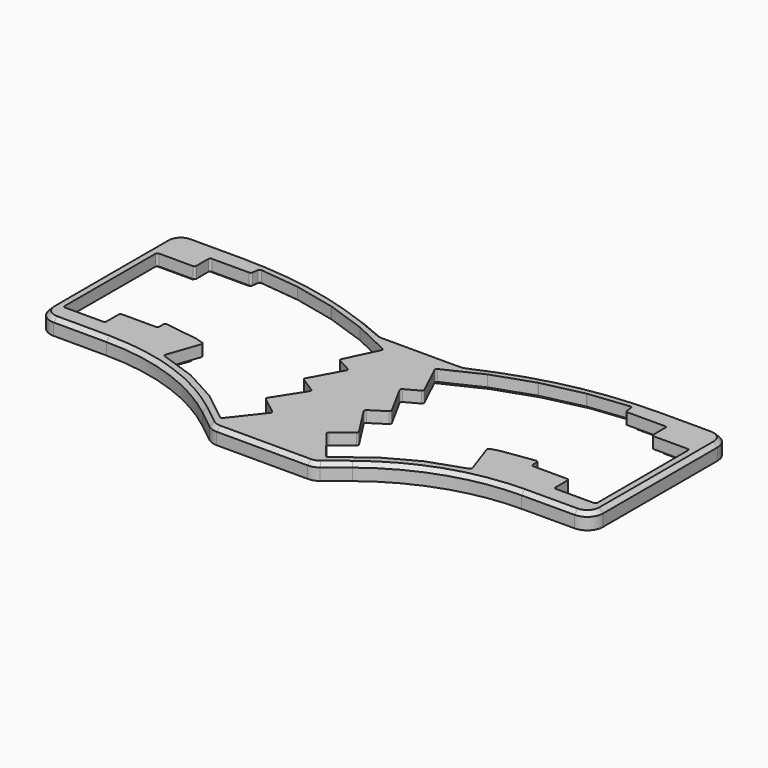
from build123d import *

# Parameters (mm, degrees)
PAD001_DEPTH    = 8
POCKET002_DEPTH = 8.001
POCKET003_DEPTH = 2.25
FILLET003_R     = 8
CHAMFER001_SIZE = 2
FILLET004_R     = 1
FILLET005_R     = 1
SKETCH014_R     = 1.5
POCKET009_DEPTH = 1.6


with BuildPart() as part:
    # Sketch003 → Pad001 (new body)
    with BuildSketch(Plane.XY):
        with BuildLine():
            add(Edge.make_bspline(
                [(141.07446, -41.399095), (114.89347, -29.032559), (86.237735, -22.575652), (57.149929, -22.575811)],
                knots=[0, 0, 0, 0, 1, 1, 1, 1], degree=3))
            add(Edge.make_bspline(
                [(57.149929, -22.575811), (22.491, -22.576)],
                knots=[0, 0, 34.658929, 34.658929], degree=1))
            add(Edge.make_bspline(
                [(22.491, -22.576), (22.491, -110.675)],
                knots=[0, 0, 88.099, 88.099], degree=1))
            add(Edge.make_bspline(
                [(22.491, -110.675), (57.149929, -110.77549)],
                knots=[0, 0, 34.659075, 34.659075], degree=1))
            add(Edge.make_bspline(
                [(57.149929, -110.77549), (81.384897, -110.77562), (104.91961, -118.90436), (123.98856, -133.86126)],
                knots=[0, 0, 0, 0, 1, 1, 1, 1], degree=3))
            add(Edge.make_bspline(
                [(123.98856, -133.86126), (136.20407, -143.44196)],
                knots=[0, 0, 15.524448, 15.524448], degree=1))
            add(Edge.make_bspline(
                [(136.20407, -143.44196), (187.64592, -143.44159)],
                knots=[0, 0, 51.44185, 51.44185], degree=1))
            add(Edge.make_bspline(
                [(187.64592, -143.44159), (199.86143, -133.86089)],
                knots=[0, 0, 15.524448, 15.524448], degree=1))
            add(Edge.make_bspline(
                [(199.86143, -133.86089), (218.93038, -118.90399), (242.46509, -110.77525), (266.70006, -110.77512)],
                knots=[0, 0, 0, 0, 1, 1, 1, 1], degree=3))
            add(Edge.make_bspline(
                [(266.70006, -110.77512), (301.35899, -110.67463)],
                knots=[0, 0, 34.659076, 34.659076], degree=1))
            add(Edge.make_bspline(
                [(301.35899, -110.67463), (301.35899, -22.575623)],
                knots=[0, 0, 88.099007, 88.099007], degree=1))
            add(Edge.make_bspline(
                [(301.35899, -22.575623), (266.70006, -22.575434)],
                knots=[0, 0, 34.65893, 34.65893], degree=1))
            add(Edge.make_bspline(
                [(266.70006, -22.575434), (237.61226, -22.575275), (208.95652, -29.032182), (182.77553, -41.398718)],
                knots=[0, 0, 0, 0, 1, 1, 1, 1], degree=3))
            add(Edge.make_bspline(
                [(182.77553, -41.398718), (141.07446, -41.399095)],
                knots=[0, 0, 41.70107, 41.70107], degree=1))
        make_face()
    extrude(amount=PAD001_DEPTH)

    # Sketch004 → Pocket002 (cut, through all)
    with BuildSketch(Plane.XY):
        with BuildLine():
            add(Edge.make_bspline(
                [(148.9125, -50.662681), (129.79731, -41.57078)],
                knots=[0, 0, 21.167266, 21.167266], degree=1))
            add(Edge.make_bspline(
                [(129.79731, -41.57078), (109.68936, -34.616221)],
                knots=[0, 0, 21.276643, 21.276643], degree=1))
            add(Edge.make_bspline(
                [(109.68936, -34.616221), (88.934039, -29.931634)],
                knots=[0, 0, 21.277422, 21.277422], degree=1))
            add(Edge.make_bspline(
                [(88.934039, -29.931634), (67.902085, -27.587613)],
                knots=[0, 0, 21.162172, 21.162172], degree=1))
            add(Edge.make_bspline(
                [(67.902085, -27.587613), (67.372742, -32.337002)],
                knots=[0, 0, 4.778797, 4.778797], degree=1))
            add(Edge.make_bspline(
                [(67.372742, -32.337002), (46.625, -32.337)],
                knots=[0, 0, 20.747742, 20.747742], degree=1))
            add(Edge.make_bspline(
                [(46.625, -32.337), (46.625, -41.863)],
                knots=[0, 0, 9.526, 9.526], degree=1))
            add(Edge.make_bspline(
                [(46.625, -41.863), (27.575, -41.862)],
                knots=[0, 0, 19.05, 19.05], degree=1))
            add(Edge.make_bspline(
                [(27.575, -41.862), (27.491, -101.013)],
                knots=[0, 0, 59.15106, 59.15106], degree=1))
            add(Edge.make_bspline(
                [(27.491, -101.013), (48.625, -101.013)],
                knots=[0, 0, 21.134, 21.134], degree=1))
            add(Edge.make_bspline(
                [(48.625, -101.013), (48.625, -91.488)],
                knots=[0, 0, 9.525, 9.525], degree=1))
            add(Edge.make_bspline(
                [(48.625, -91.488), (67.675003, -91.487991)],
                knots=[0, 0, 19.050003, 19.050003], degree=1))
            add(Edge.make_bspline(
                [(67.675003, -91.487991), (67.674999, -86.878856)],
                knots=[0, 0, 4.609135, 4.609135], degree=1))
            add(Edge.make_bspline(
                [(67.674999, -86.878856), (85.295028, -89.40883)],
                knots=[0, 0, 17.800736, 17.800736], degree=1))
            add(Edge.make_bspline(
                [(85.295028, -89.40883), (90.295387, -90.871965)],
                knots=[0, 0, 5.210024, 5.210024], degree=1))
            add(Edge.make_bspline(
                [(90.295387, -90.871965), (84.190344, -108.54698)],
                knots=[0, 0, 18.699671, 18.699671], degree=1))
            add(Edge.make_bspline(
                [(84.190344, -108.54698), (103.06387, -115.06556)],
                knots=[0, 0, 19.96752, 19.96752], degree=1))
            add(Edge.make_bspline(
                [(103.06387, -115.06556), (119.64532, -124.09926)],
                knots=[0, 0, 18.88259, 18.88259], degree=1))
            add(Edge.make_bspline(
                [(119.64532, -124.09926), (135.35566, -136.42204)],
                knots=[0, 0, 19.966614, 19.966614], degree=1))
            add(Edge.make_bspline(
                [(135.35566, -136.42204), (148.34697, -119.85904)],
                knots=[0, 0, 21.050109, 21.050109], degree=1))
            add(Edge.make_bspline(
                [(148.34697, -119.85904), (138.34645, -112.01506)],
                knots=[0, 0, 12.709777, 12.709777], degree=1))
            add(Edge.make_bspline(
                [(138.34645, -112.01506), (148.8471, -95.649157)],
                knots=[0, 0, 19.444959, 19.444959], degree=1))
            add(Edge.make_bspline(
                [(148.8471, -95.649157), (139.67356, -89.763252)],
                knots=[0, 0, 10.899436, 10.899436], degree=1))
            add(Edge.make_bspline(
                [(139.67356, -89.763252), (148.96878, -72.722165)],
                knots=[0, 0, 19.411331, 19.411331], degree=1))
            add(Edge.make_bspline(
                [(148.96878, -72.722165), (140.59282, -68.153425)],
                knots=[0, 0, 9.540969, 9.540969], degree=1))
            add(Edge.make_bspline(
                [(140.59282, -68.153425), (148.9125, -50.662681)],
                knots=[0, 0, 19.368614, 19.368614], degree=1))
        make_face()
        with BuildLine():
            add(Edge.make_bspline(
                [(174.93728, -50.663068), (194.05247, -41.571167)],
                knots=[0, 0, 21.167266, 21.167266], degree=1))
            add(Edge.make_bspline(
                [(194.05247, -41.571167), (214.16042, -34.616608)],
                knots=[0, 0, 21.276643, 21.276643], degree=1))
            add(Edge.make_bspline(
                [(214.16042, -34.616608), (234.91574, -29.932021)],
                knots=[0, 0, 21.277421, 21.277421], degree=1))
            add(Edge.make_bspline(
                [(234.91574, -29.932021), (255.94769, -27.588)],
                knots=[0, 0, 21.162168, 21.162168], degree=1))
            add(Edge.make_bspline(
                [(255.94769, -27.588), (256.47704, -32.337389)],
                knots=[0, 0, 4.778798, 4.778798], degree=1))
            add(Edge.make_bspline(
                [(256.47704, -32.337389), (277.22478, -32.337387)],
                knots=[0, 0, 20.74774, 20.74774], degree=1))
            add(Edge.make_bspline(
                [(277.22478, -32.337387), (277.22478, -41.863387)],
                knots=[0, 0, 9.526, 9.526], degree=1))
            add(Edge.make_bspline(
                [(277.22478, -41.863387), (296.27478, -41.862387)],
                knots=[0, 0, 19.05, 19.05], degree=1))
            add(Edge.make_bspline(
                [(296.27478, -41.862387), (296.35878, -101.01339)],
                knots=[0, 0, 59.151063, 59.151063], degree=1))
            add(Edge.make_bspline(
                [(296.35878, -101.01339), (275.22478, -101.01339)],
                knots=[0, 0, 21.134, 21.134], degree=1))
            add(Edge.make_bspline(
                [(275.22478, -101.01339), (275.22478, -91.488387)],
                knots=[0, 0, 9.525003, 9.525003], degree=1))
            add(Edge.make_bspline(
                [(275.22478, -91.488387), (256.17478, -91.488378)],
                knots=[0, 0, 19.05, 19.05], degree=1))
            add(Edge.make_bspline(
                [(256.17478, -91.488378), (256.17478, -86.879243)],
                knots=[0, 0, 4.609135, 4.609135], degree=1))
            add(Edge.make_bspline(
                [(256.17478, -86.879243), (238.55475, -89.409217)],
                knots=[0, 0, 17.800737, 17.800737], degree=1))
            add(Edge.make_bspline(
                [(238.55475, -89.409217), (233.55439, -90.872352)],
                knots=[0, 0, 5.210025, 5.210025], degree=1))
            add(Edge.make_bspline(
                [(233.55439, -90.872352), (239.65944, -108.54737)],
                knots=[0, 0, 18.699676, 18.699676], degree=1))
            add(Edge.make_bspline(
                [(239.65944, -108.54737), (220.78591, -115.06595)],
                knots=[0, 0, 19.967524, 19.967524], degree=1))
            add(Edge.make_bspline(
                [(220.78591, -115.06595), (204.20446, -124.09965)],
                knots=[0, 0, 18.88259, 18.88259], degree=1))
            add(Edge.make_bspline(
                [(204.20446, -124.09965), (188.49412, -136.42243)],
                knots=[0, 0, 19.966614, 19.966614], degree=1))
            add(Edge.make_bspline(
                [(188.49412, -136.42243), (175.50281, -119.85943)],
                knots=[0, 0, 21.050109, 21.050109], degree=1))
            add(Edge.make_bspline(
                [(175.50281, -119.85943), (185.50333, -112.01545)],
                knots=[0, 0, 12.709777, 12.709777], degree=1))
            add(Edge.make_bspline(
                [(185.50333, -112.01545), (175.00268, -95.649544)],
                knots=[0, 0, 19.444962, 19.444962], degree=1))
            add(Edge.make_bspline(
                [(175.00268, -95.649544), (184.17622, -89.763639)],
                knots=[0, 0, 10.899436, 10.899436], degree=1))
            add(Edge.make_bspline(
                [(184.17622, -89.763639), (174.881, -72.722552)],
                knots=[0, 0, 19.411331, 19.411331], degree=1))
            add(Edge.make_bspline(
                [(174.881, -72.722552), (183.25696, -68.153812)],
                knots=[0, 0, 9.540969, 9.540969], degree=1))
            add(Edge.make_bspline(
                [(183.25696, -68.153812), (174.93728, -50.663068)],
                knots=[0, 0, 19.368614, 19.368614], degree=1))
        make_face()
    extrude(amount=POCKET002_DEPTH, mode=Mode.SUBTRACT)

    # Sketch005 → Pocket003 (cut)
    with BuildSketch(Plane(origin=(0, 0, 0), x_dir=(-1, 0, 0), z_dir=(0, 0, 1))):
        with BuildLine():
            add(Edge.make_bspline(
                [(-192.91224, 38.789471), (-213.33154, 31.727038)],
                knots=[0, 0, 21.606151, 21.606151], degree=1))
            add(Edge.make_bspline(
                [(-213.33154, 31.727038), (-234.41575, 26.968034)],
                knots=[0, 0, 21.614625, 21.614625], degree=1))
            add(Edge.make_bspline(
                [(-234.41575, 26.968034), (-258.5962, 24.273)],
                knots=[0, 0, 24.330174, 24.330174], degree=1))
            add(Edge.make_bspline(
                [(-258.5962, 24.273), (-259.16057, 29.336732)],
                knots=[0, 0, 5.095085, 5.095085], degree=1))
            add(Edge.make_bspline(
                [(-259.16057, 29.336732), (-280.22405, 29.336732)],
                knots=[0, 0, 21.06348, 21.06348], degree=1))
            add(Edge.make_bspline(
                [(-280.22405, 29.336732), (-280.22405, 38.861732)],
                knots=[0, 0, 9.525, 9.525], degree=1))
            add(Edge.make_bspline(
                [(-280.22405, 38.861732), (-299.27405, 38.861732)],
                knots=[0, 0, 19.05, 19.05], degree=1))
            add(Edge.make_bspline(
                [(-299.27405, 38.861732), (-299.27405, 104.01174)],
                knots=[0, 0, 65.150008, 65.150008], degree=1))
            add(Edge.make_bspline(
                [(-299.27405, 104.01174), (-272.22405, 104.01174)],
                knots=[0, 0, 27.05, 27.05], degree=1))
            add(Edge.make_bspline(
                [(-272.22405, 104.01174), (-272.22405, 94.487226)],
                knots=[0, 0, 9.524514, 9.524514], degree=1))
            add(Edge.make_bspline(
                [(-272.22405, 94.487226), (-253.17405, 94.487226)],
                knots=[0, 0, 19.05, 19.05], degree=1))
            add(Edge.make_bspline(
                [(-253.17405, 94.487226), (-253.17405, 90.339625)],
                knots=[0, 0, 4.147601, 4.147601], degree=1))
            add(Edge.make_bspline(
                [(-253.17405, 90.339625), (-239.17129, 92.350278)],
                knots=[0, 0, 14.146378, 14.146378], degree=1))
            add(Edge.make_bspline(
                [(-239.17129, 92.350278), (-237.41618, 92.86492)],
                knots=[0, 0, 1.829007, 1.829007], degree=1))
            add(Edge.make_bspline(
                [(-237.41618, 92.86492), (-243.47347, 110.40229)],
                knots=[0, 0, 18.553978, 18.553978], degree=1))
            add(Edge.make_bspline(
                [(-243.47347, 110.40229), (-222.00049, 117.81891)],
                knots=[0, 0, 22.717727, 22.717727], degree=1))
            add(Edge.make_bspline(
                [(-222.00049, 117.81891), (-205.85941, 126.61269)],
                knots=[0, 0, 18.381105, 18.381105], degree=1))
            add(Edge.make_bspline(
                [(-205.85941, 126.61269), (-187.98418, 140.63326)],
                knots=[0, 0, 22.717839, 22.717839], degree=1))
            add(Edge.make_bspline(
                [(-187.98418, 140.63326), (-174.95987, 124.0282)],
                knots=[0, 0, 21.10357, 21.10357], degree=1))
            add(Edge.make_bspline(
                [(-174.95987, 124.0282), (-148.88918, 124.02897)],
                knots=[0, 0, 26.07069, 26.07069], degree=1))
            add(Edge.make_bspline(
                [(-148.88918, 124.02897), (-135.86487, 140.63403)],
                knots=[0, 0, 21.10357, 21.10357], degree=1))
            add(Edge.make_bspline(
                [(-135.86487, 140.63403), (-117.98964, 126.61346)],
                knots=[0, 0, 22.717839, 22.717839], degree=1))
            add(Edge.make_bspline(
                [(-117.98964, 126.61346), (-101.84856, 117.81968)],
                knots=[0, 0, 18.381105, 18.381105], degree=1))
            add(Edge.make_bspline(
                [(-101.84856, 117.81968), (-80.375574, 110.40306)],
                knots=[0, 0, 22.717733, 22.717733], degree=1))
            add(Edge.make_bspline(
                [(-80.375574, 110.40306), (-86.432863, 92.865688)],
                knots=[0, 0, 18.55398, 18.55398], degree=1))
            add(Edge.make_bspline(
                [(-86.432863, 92.865688), (-84.677752, 92.351046)],
                knots=[0, 0, 1.829008, 1.829008], degree=1))
            add(Edge.make_bspline(
                [(-84.677752, 92.351046), (-70.674999, 90.340393)],
                knots=[0, 0, 14.146371, 14.146371], degree=1))
            add(Edge.make_bspline(
                [(-70.674999, 90.340393), (-70.674999, 94.487994)],
                knots=[0, 0, 4.147601, 4.147601], degree=1))
            add(Edge.make_bspline(
                [(-70.674999, 94.487994), (-51.624999, 94.487994)],
                knots=[0, 0, 19.05, 19.05], degree=1))
            add(Edge.make_bspline(
                [(-51.624999, 94.487994), (-51.624999, 104.01251)],
                knots=[0, 0, 9.524516, 9.524516], degree=1))
            add(Edge.make_bspline(
                [(-51.624999, 104.01251), (-24.574998, 104.01251)],
                knots=[0, 0, 27.050001, 27.050001], degree=1))
            add(Edge.make_bspline(
                [(-24.574998, 104.01251), (-24.574998, 38.8625)],
                knots=[0, 0, 65.15001, 65.15001], degree=1))
            add(Edge.make_bspline(
                [(-24.574998, 38.8625), (-43.625, 38.8625)],
                knots=[0, 0, 19.050002, 19.050002], degree=1))
            add(Edge.make_bspline(
                [(-43.625, 38.8625), (-43.625, 29.3375)],
                knots=[0, 0, 9.525, 9.525], degree=1))
            add(Edge.make_bspline(
                [(-43.625, 29.3375), (-64.688476, 29.3375)],
                knots=[0, 0, 21.063476, 21.063476], degree=1))
            add(Edge.make_bspline(
                [(-64.688476, 29.3375), (-65.252853, 24.273768)],
                knots=[0, 0, 5.095086, 5.095086], degree=1))
            add(Edge.make_bspline(
                [(-65.252853, 24.273768), (-89.433298, 26.968802)],
                knots=[0, 0, 24.330169, 24.330169], degree=1))
            add(Edge.make_bspline(
                [(-89.433298, 26.968802), (-110.51751, 31.727806)],
                knots=[0, 0, 21.614627, 21.614627], degree=1))
            add(Edge.make_bspline(
                [(-110.51751, 31.727806), (-130.93681, 38.790239)],
                knots=[0, 0, 21.606151, 21.606151], degree=1))
            add(Edge.make_bspline(
                [(-130.93681, 38.790239), (-151.80199, 48.715006)],
                knots=[0, 0, 23.10534, 23.10534], degree=1))
            add(Edge.make_bspline(
                [(-151.80199, 48.715006), (-172.04546, 48.715)],
                knots=[0, 0, 20.24347, 20.24347], degree=1))
            add(Edge.make_bspline(
                [(-172.04546, 48.715), (-192.91224, 38.789471)],
                knots=[0, 0, 23.107112, 23.107112], degree=1))
        make_face()
    extrude(amount=POCKET003_DEPTH, mode=Mode.SUBTRACT)

    # Fillet003
    fillet003_edges = [part.edges().sort_by_distance(p)[0] for p in [
        (301.35899, -110.67463, 4),
        (187.64592, -143.44159, 4),
        (301.35899, -22.575623, 4),
        (182.77553, -41.398718, 4),
        (141.07446, -41.399095, 4),
        (22.491, -22.576, 4),
        (22.491, -110.675, 4),
        (136.20407, -143.44196, 4),
    ]]
    fillet(fillet003_edges, radius=FILLET003_R)

    # Chamfer001
    chamfer001_edges = [part.edges().sort_by_distance(p)[0] for p in [
        (161.925027, -143.441775, 8),
    ]]
    chamfer(chamfer001_edges, length=CHAMFER001_SIZE)

    # Fillet004
    fillet004_edges = [part.edges().sort_by_distance(p)[0] for p in [
        (174.95987, -124.0282, 1.125),
        (187.98418, -140.63326, 1.125),
        (205.85941, -126.61269, 1.125),
        (222.00049, -117.81891, 1.125),
        (243.47347, -110.40229, 1.125),
        (237.41618, -92.86492, 1.125),
        (239.17129, -92.350278, 1.125),
        (253.17405, -94.487226, 1.125),
        (253.17405, -90.339625, 1.125),
        (272.22405, -94.487226, 1.125),
        (272.22405, -104.01174, 1.125),
        (299.27405, -104.01174, 1.125),
        (299.27405, -38.861732, 1.125),
        (280.22405, -38.861732, 1.125),
        (280.22405, -29.336732, 1.125),
        (259.16057, -29.336732, 1.125),
        (258.5962, -24.273, 1.125),
        (234.41575, -26.968034, 1.125),
        (213.33154, -31.727038, 1.125),
        (192.91224, -38.789471, 1.125),
        (172.04546, -48.715, 1.125),
        (151.80199, -48.715006, 1.125),
        (130.93681, -38.790239, 1.125),
        (110.51751, -31.727806, 1.125),
        (89.433298, -26.968802, 1.125),
        (64.688476, -29.3375, 1.125),
        (65.252853, -24.273768, 1.125),
        (43.625, -29.3375, 1.125),
        (43.625, -38.8625, 1.125),
        (24.574998, -38.8625, 1.125),
        (24.574998, -104.01251, 1.125),
        (51.624999, -104.01251, 1.125),
        (51.624999, -94.487994, 1.125),
        (70.674999, -94.487994, 1.125),
        (70.674999, -90.340393, 1.125),
        (86.432863, -92.865688, 1.125),
        (80.375574, -110.40306, 1.125),
        (101.84856, -117.81968, 1.125),
        (117.98964, -126.61346, 1.125),
        (135.86487, -140.63403, 1.125),
        (148.88918, -124.02897, 1.125),
        (84.677752, -92.351046, 1.125),
    ]]
    fillet(fillet004_edges, radius=FILLET004_R)

    # Fillet005
    fillet005_edges = [part.edges().sort_by_distance(p)[0] for p in [
        (27.575, -41.862, 5.125),
        (46.625, -41.863, 5.125),
        (46.625, -32.337, 5.125),
        (67.372742, -32.337002, 5.125),
        (67.902085, -27.587613, 5.125),
        (27.491, -101.013, 5.125),
        (48.625, -101.013, 5.125),
        (48.625, -91.488, 5.125),
        (67.675003, -91.487991, 5.125),
        (67.674999, -86.878856, 5.125),
        (85.295028, -89.40883, 5.125),
        (90.295387, -90.871965, 5.125),
        (84.190344, -108.54698, 5.125),
        (103.06387, -115.06556, 5.125),
        (119.64532, -124.09926, 5.125),
        (135.35566, -136.42204, 5.125),
        (148.34697, -119.85904, 5.125),
        (138.34645, -112.01506, 5.125),
        (148.8471, -95.649157, 5.125),
        (139.67356, -89.763252, 5.125),
        (148.96878, -72.722165, 5.125),
        (140.59282, -68.153425, 5.125),
        (148.9125, -50.662681, 5.125),
        (129.79731, -41.57078, 5.125),
        (109.68936, -34.616221, 5.125),
        (88.934039, -29.931634, 5.125),
        (174.93728, -50.663068, 5.125),
        (183.25696, -68.153812, 5.125),
        (174.881, -72.722552, 5.125),
        (184.17622, -89.763639, 5.125),
        (175.00268, -95.649544, 5.125),
        (185.50333, -112.01545, 5.125),
        (175.50281, -119.85943, 5.125),
        (204.20446, -124.09965, 5.125),
        (220.78591, -115.06595, 5.125),
        (239.65944, -108.54737, 5.125),
        (233.55439, -90.872352, 5.125),
        (238.55475, -89.409217, 5.125),
        (256.17478, -86.879243, 5.125),
        (256.17478, -91.488378, 5.125),
        (275.22478, -91.488387, 5.125),
        (275.22478, -101.01339, 5.125),
        (296.35878, -101.01339, 5.125),
        (296.27478, -41.862387, 5.125),
        (277.22478, -41.863387, 5.125),
        (277.22478, -32.337387, 5.125),
        (256.47704, -32.337389, 5.125),
        (255.94769, -27.588, 5.125),
        (234.91574, -29.932021, 5.125),
        (214.16042, -34.616608, 5.125),
        (194.05247, -41.571167, 5.125),
        (188.49412, -136.42243, 5.125),
    ]]
    fillet(fillet005_edges, radius=FILLET005_R)

    # Sketch014 (on Face191 of Fillet005) → Pocket009 (cut)
    with BuildSketch(Plane(origin=(0, 0, 0), x_dir=(1, 0, 0), z_dir=(0, 0, -1))):
        with Locations((30.491, 30.575956)):
            Circle(SKETCH014_R)
        with Locations((293.35899, 30.575579)):
            Circle(SKETCH014_R)
        with Locations((265.35899, 102.77512)):
            Circle(SKETCH014_R)
        with Locations((58.491, 102.77549)):
            Circle(SKETCH014_R)
        with Locations((145.925027, 135.441775)):
            Circle(SKETCH014_R)
        with Locations((177.925027, 135.441775)):
            Circle(SKETCH014_R)
        with Locations((153.925033, 45.398906)):
            Circle(SKETCH014_R)
        with Locations((169.925033, 45.398906)):
            Circle(SKETCH014_R)
    extrude(amount=-POCKET009_DEPTH, mode=Mode.SUBTRACT)


solid = part.part
